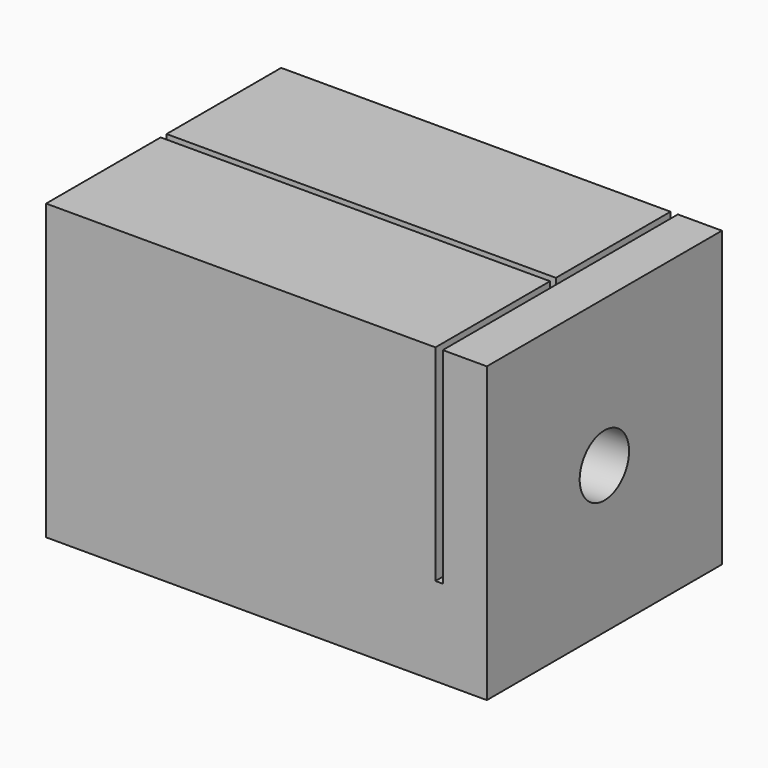
from build123d import *

# Parameters (mm, degrees)
SKETCH_W        = 30
SKETCH_H        = 20
PAD_DEPTH       = 20
SKETCH001_W     = 0.5
SKETCH001_H     = 14
POCKET_DEPTH    = 20.001
SKETCH002_R     = 2.1
POCKET001_DEPTH = 30.001
SKETCH003_W     = 0.5
SKETCH003_H     = 14
POCKET002_DEPTH = 26.5


with BuildPart() as part:
    # Sketch → Pad (new body)
    with BuildSketch(Plane.XY):
        Rectangle(SKETCH_W, SKETCH_H)
    extrude(amount=PAD_DEPTH)

    # Sketch001 (on Face2 of Pad) → Pocket (cut, through all)
    with BuildSketch(Plane.XZ.offset(10)):
        with Locations((11.75, 13)):
            Rectangle(SKETCH001_W, SKETCH001_H)
    extrude(amount=-POCKET_DEPTH, mode=Mode.SUBTRACT)

    # Sketch002 (on Face10 of Pocket) → Pocket001 (cut, through all)
    with BuildSketch(Plane.YZ.offset(15)):
        with Locations((0, 10)):
            Circle(SKETCH002_R)
    extrude(amount=-POCKET001_DEPTH, mode=Mode.SUBTRACT)

    # Sketch003 (on Face1 of Pocket001) → Pocket002 (cut)
    with BuildSketch(Plane(origin=(-15, 0, 0), x_dir=(0, -1, 0), z_dir=(-1, 0, 0))):
        with Locations((0, 13)):
            Rectangle(SKETCH003_W, SKETCH003_H)
    extrude(amount=-POCKET002_DEPTH, mode=Mode.SUBTRACT)


solid = part.part
